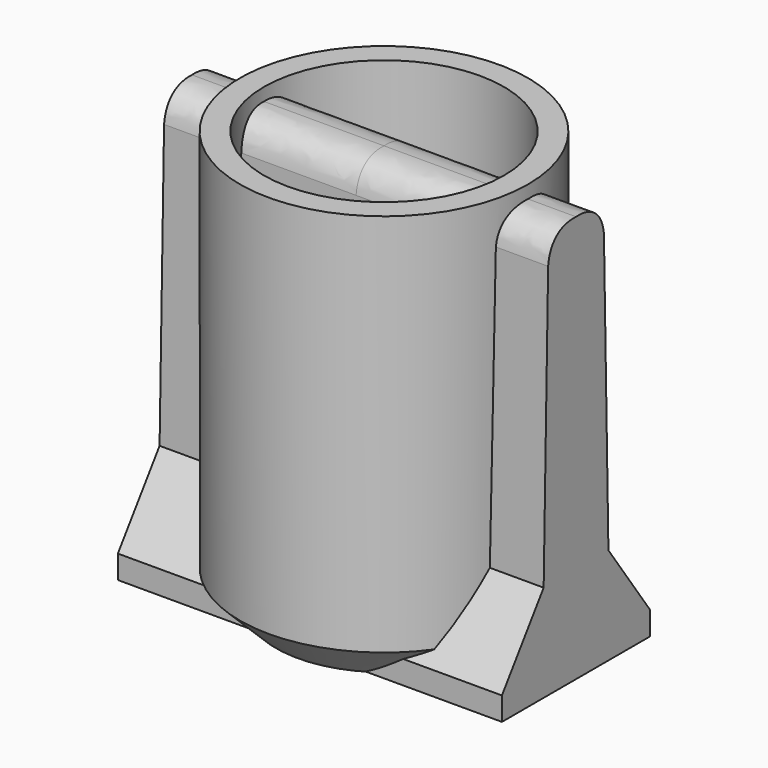
from build123d import *

# Parameters (mm, degrees)
F0_R      = 10
F1_DEPTH  = 2
F0_R_2    = 12
F2_DEPTH  = 30
F2_FACE_R = 12
F3_DEPTH  = 5
F4_SIZE   = 3
F6_DEPTH  = 16


with BuildPart() as f1:
    # F0 (on Top) → F1 (new body)
    with BuildSketch(Plane.XY):
        Circle(F0_R)
    extrude(amount=F1_DEPTH)

    # F0 (on Top) → F2 (join)
    with BuildSketch(Plane.XY):
        Circle(F0_R_2)
        Circle(F0_R, mode=Mode.SUBTRACT)
    extrude(amount=F2_DEPTH)

    # F2_face (on face) → F3 (join)
    with BuildSketch(Plane(origin=(0, 0, 0), x_dir=(1, 0, 0), z_dir=(0, 0, -1))):
        Circle(F2_FACE_R)
    extrude(amount=F3_DEPTH)

    # F4
    f4_edges = [f1.edges().sort_by_distance(p)[0] for p in [
        (-12, 0, -5),
    ]]
    chamfer(f4_edges, length=F4_SIZE)

    # F5 (on Right) → F6 (join, symmetric)
    with BuildSketch(Plane.YZ):
        with BuildLine():
            Line((0, -4.988678), (0, 28.925132))
            add(Edge.make_bspline(
                [(0, 28.925132), (-1.5119, 29.017054), (-2.72286, 28.264295), (-2.905796, 26.475869)],
                knots=[0, 0, 0, 0, 3.800334, 3.800334, 3.800334, 3.800334], degree=3))
            Line((-2.905796, 26.475869), (-3.372322, 3.091232))
            Line((-3.372322, 3.091232), (-7.718052, -3.04689))
            Line((-7.718052, -3.04689), (-7.718052, -4.988678))
            Line((-7.718052, -4.988678), (0, -4.988678))
        make_face()
        with BuildLine():
            add(Edge.make_bspline(
                [(0, 28.925132), (1.5119, 29.017054), (2.72286, 28.264295), (2.905796, 26.475869)],
                knots=[0, 0, 0, 0, 3.800334, 3.800334, 3.800334, 3.800334], degree=3))
            Line((0, 28.925132), (0, -4.988678))
            Line((0, -4.988678), (7.718052, -4.988678))
            Line((7.718052, -4.988678), (7.718052, -3.04689))
            Line((7.718052, -3.04689), (3.372322, 3.091232))
            Line((3.372322, 3.091232), (2.905796, 26.475869))
        make_face()
    extrude(amount=F6_DEPTH, both=True)


solid = f1.part
